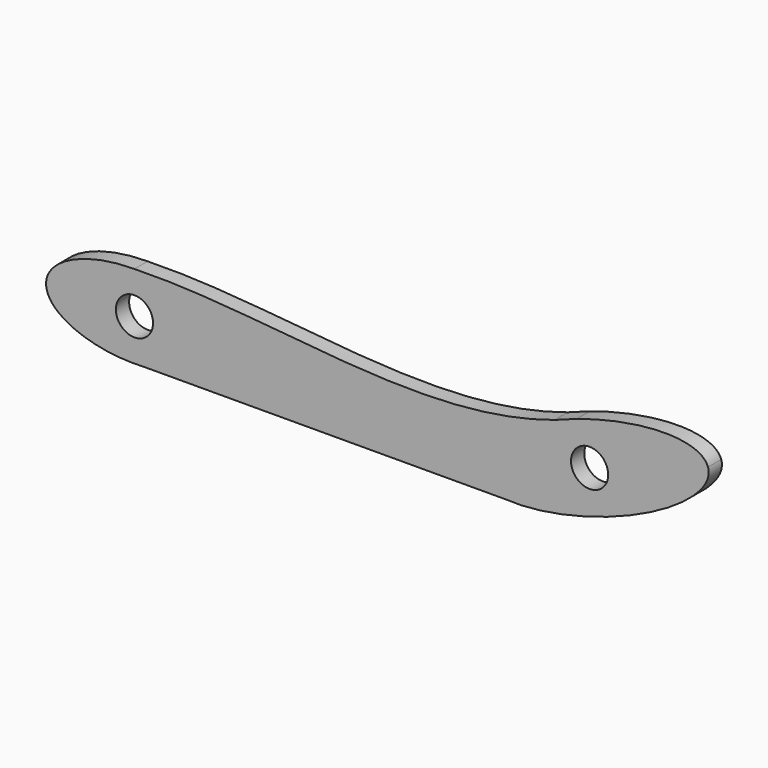
from build123d import *

# Parameters (mm, degrees)
F0_R     = 3.6
F1_DEPTH = 3.2


with BuildPart() as f1:
    # F0 (on Front) → F1 (new body)
    with BuildSketch(Plane.XZ):
        with BuildLine():
            Line((-50.505031, -10.130523), (19.430825, -9.938481))
            add(Edge.make_bspline(
                [(28.838257, 6.671619), (-7.901181, -8.15772), (19.430825, -9.938481)],
                knots=[1.762633, 1.762633, 1.762633, 3.823497, 3.823497, 3.823497], degree=2, weights=[1, 0.514448, 1]))
            add(Edge.make_bspline(
                [(-52.495337, 5.967676), (-25.432996, 6.684797), (2.557579, -1.952245), (28.838257, 6.671619)],
                knots=[0, 0, 0, 0, 81.21735, 81.21735, 81.21735, 81.21735], degree=3))
            add(Edge.make_bspline(
                [(-35.370454, -2.10879), (-35.370454, 5.967676), (-52.495337, 5.967676)],
                knots=[0, 0, 0, 1.570796, 1.570796, 1.570796], degree=2, weights=[1, 0.707107, 1]))
            add(Edge.make_bspline(
                [(-50.505031, -10.130523), (-35.370454, -9.295286), (-35.370454, -2.10879)],
                knots=[4.828875, 4.828875, 4.828875, 6.283185, 6.283185, 6.283185], degree=2, weights=[1, 0.747069, 1]))
        make_face()
        with BuildLine():
            add(Edge.make_bspline(
                [(-52.495337, 5.967676), (-70.647845, 5.967676), (-69.591183, -2.578923), (-68.534521, -11.125522), (-50.505031, -10.130523)],
                knots=[1.570796, 1.570796, 1.570796, 3.199836, 3.199836, 4.828875, 4.828875, 4.828875], degree=2, weights=[1, 0.686218, 1, 0.686218, 1]))
            add(Edge.make_bspline(
                [(-50.505031, -10.130523), (-35.370454, -9.295286), (-35.370454, -2.10879)],
                knots=[4.828875, 4.828875, 4.828875, 6.283185, 6.283185, 6.283185], degree=2, weights=[1, 0.747069, 1]))
            add(Edge.make_bspline(
                [(-35.370454, -2.10879), (-35.370454, 5.967676), (-52.495337, 5.967676)],
                knots=[0, 0, 0, 1.570796, 1.570796, 1.570796], degree=2, weights=[1, 0.707107, 1]))
        make_face()
        with Locations((-52.495337, -2.10879)):
            Circle(F0_R, mode=Mode.SUBTRACT)
        with BuildLine():
            add(Edge.make_bspline(
                [(19.430825, -9.938481), (65.644886, -12.949463), (58.602594, 8.312259)],
                knots=[3.823497, 3.823497, 3.823497, 6.283185, 6.283185, 6.283185], degree=2, weights=[1, 0.334385, 1]))
            add(Edge.make_bspline(
                [(58.602594, 8.312259), (56.103929, 15.856102), (33.165845, 8.258567)],
                knots=[0, 0, 0, 1.570796, 1.570796, 1.570796], degree=2, weights=[1, 0.707107, 1]))
            add(Edge.make_bspline(
                [(28.838257, 6.671619), (30.286123, 7.146728), (31.728799, 7.674227), (33.165845, 8.258567)],
                knots=[81.21735, 81.21735, 81.21735, 81.21735, 85.69181, 85.69181, 85.69181, 85.69181], degree=3))
            add(Edge.make_bspline(
                [(28.838257, 6.671619), (-7.901181, -8.15772), (19.430825, -9.938481)],
                knots=[1.762633, 1.762633, 1.762633, 3.823497, 3.823497, 3.823497], degree=2, weights=[1, 0.514448, 1]))
        make_face()
        with Locations((35.664511, 0.714724)):
            Circle(F0_R, mode=Mode.SUBTRACT)
    extrude(amount=F1_DEPTH)


solid = f1.part
